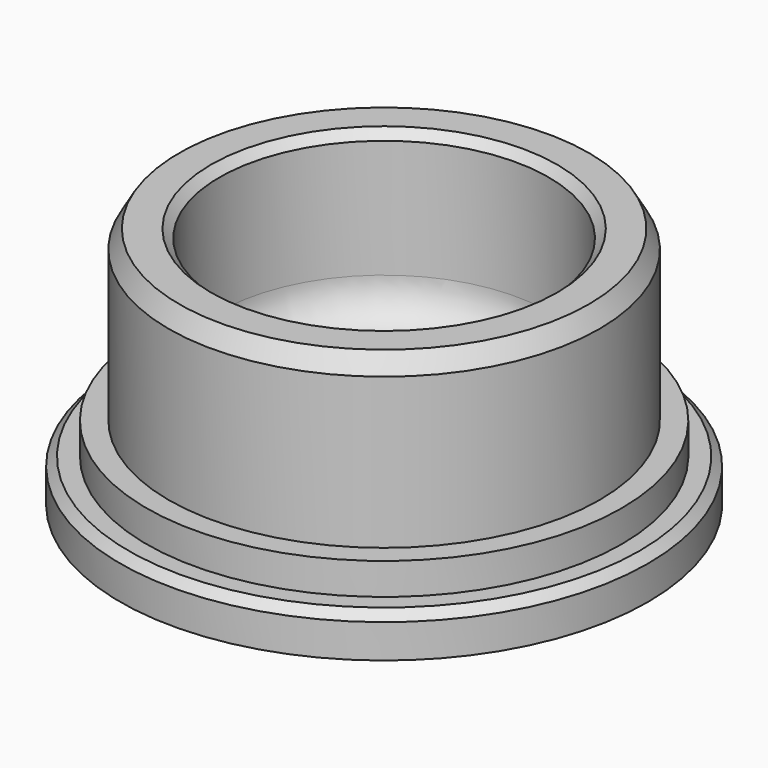
from build123d import *

# Parameters (mm, degrees)
F2_R     = 2
F3_SIZE  = 0.4
F4_SIZE2 = 0.5
F4_SIZE  = 0.8660254038
F5_SIZE  = 0.4


with BuildPart() as f1:
    # F0 (on Front) → F1 (revolve)
    with BuildSketch(Plane.XZ):
        Polygon((10.2, 5.8181819119), (7.8, 5.8181819119), (7.8, -2.1818180881), (0, -2.1818180881), (0, -5.6818180881), (12.5, -5.6818180881), (12.5, -3.6818180881), (11.25, -3.6818180881), (11.25, -2.1818180881), (10.2, -2.1818180881), align=None)
    revolve(axis=Axis((0, 0, 1.239669376), (0, 0, -1)))

    # F2
    f2_edges = [f1.edges().sort_by_distance(p)[0] for p in [
        (-7.8, 0, -2.181818),
    ]]
    fillet(f2_edges, radius=F2_R)

    # F3
    f3_edges = [f1.edges().sort_by_distance(p)[0] for p in [
        (-12.5, 0, -3.681818),
    ]]
    chamfer(f3_edges, length=F3_SIZE)

    # F4
    f4_edges = [f1.edges().sort_by_distance(p)[0] for p in [
        (-10.2, 0, 5.818182),
    ]]
    f4_side = f1.faces().sort_by_distance((-10.2, 0, 1.818182))[0]
    chamfer(f4_edges, length=F4_SIZE, length2=F4_SIZE2, reference=f4_side)

    # F5
    f5_edges = [f1.edges().sort_by_distance(p)[0] for p in [
        (-7.8, 0, 5.818182),
    ]]
    chamfer(f5_edges, length=F5_SIZE)


solid = f1.part
